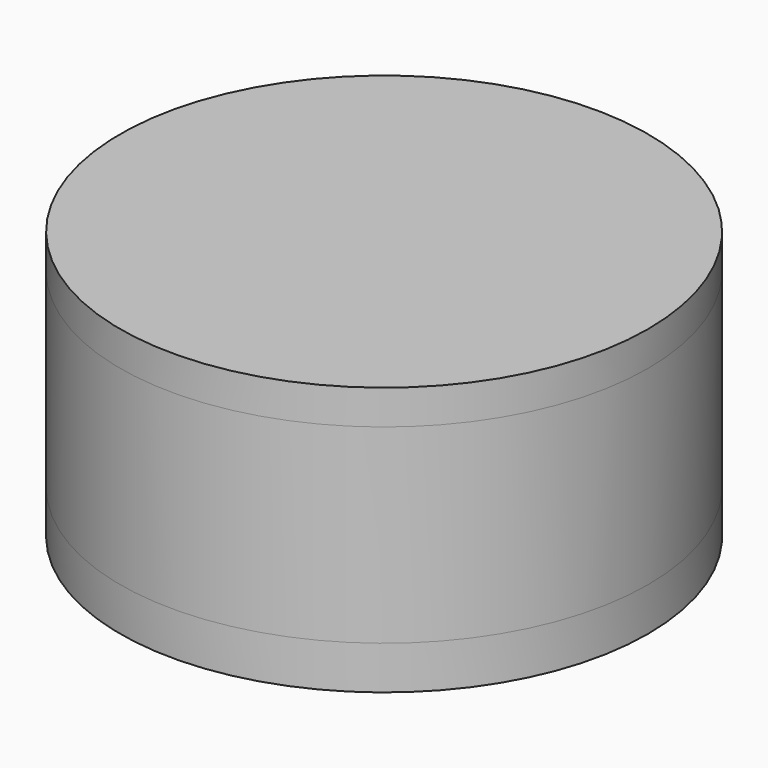
from build123d import *


with BuildPart() as body:
    # Sketch → Revolution (revolve)
    with BuildSketch(Plane.XZ):
        Polygon((0, 0), (0, 21), (22.5, 21), (22.5, 10.154701), (20.5, 9), (20.5, 6), (28.5, 6), (28.5, 5), (30.5, 5), (30.5, 0), align=None)
    revolve(axis=Axis((0, 0, 0), (0, 0, 1)))


with BuildPart() as body001:
    # Sketch001 → Revolution001 (revolve)
    with BuildSketch(Plane.XZ):
        Polygon((28.7, 6), (28.7, 5), (30.5, 5), (30.5, 27), (26.7, 27), (26.7, 6), align=None)
    revolve(axis=Axis((0, 0, 0), (0, 0, 1)))


with BuildPart() as body002:
    # Sketch002 → Revolution002 (revolve)
    with BuildSketch(Plane.XZ):
        Polygon((0, 26), (26.5, 26), (26.5, 27), (30.5, 27), (30.5, 31), (0, 31), align=None)
    revolve(axis=Axis((0, 0, 0), (0, 0, 1)))


solid = Compound([body.part, body001.part, body002.part])
